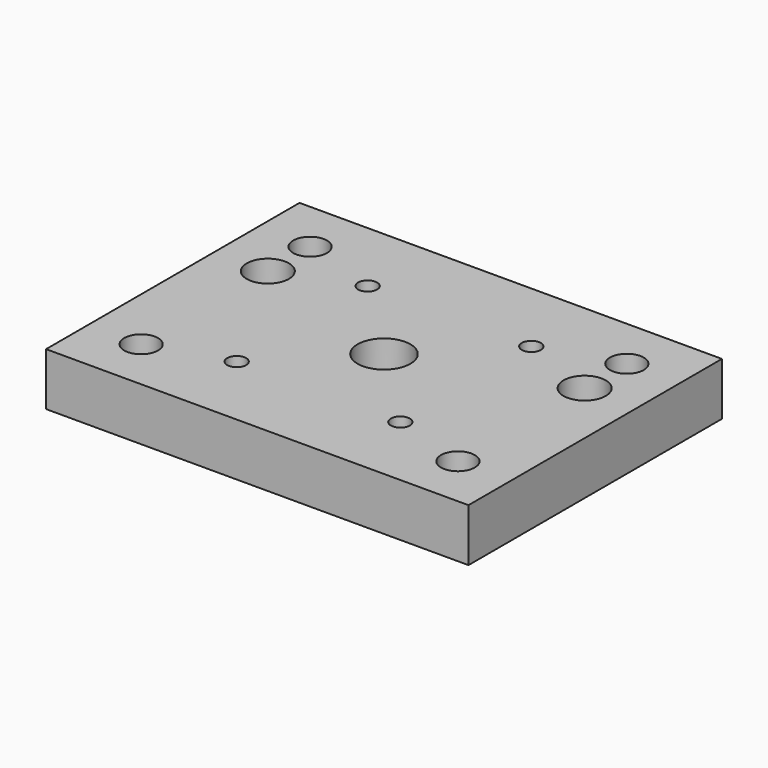
from build123d import *

# Parameters (mm, degrees)
SKETCH_W   = 80
SKETCH_H   = 60
SKETCH_R   = 5
SKETCH_R_2 = 1.8
SKETCH_R_3 = 3.2
SKETCH_R_4 = 4
PAD_DEPTH  = 10


with BuildPart() as part:
    # Sketch → Pad (new body)
    with BuildSketch(Plane.XY):
        with Locations((40, 30)):
            Rectangle(SKETCH_W, SKETCH_H)
        with Locations((40, 30)):
            Circle(SKETCH_R, mode=Mode.SUBTRACT)
        with Locations((55.5, 45.5)):
            Circle(SKETCH_R_2, mode=Mode.SUBTRACT)
        with Locations((55.5, 14.5)):
            Circle(SKETCH_R_2, mode=Mode.SUBTRACT)
        with Locations((24.5, 14.5)):
            Circle(SKETCH_R_2, mode=Mode.SUBTRACT)
        with Locations((24.5, 45.5)):
            Circle(SKETCH_R_2, mode=Mode.SUBTRACT)
        with Locations((10, 10)):
            Circle(SKETCH_R_3, mode=Mode.SUBTRACT)
        with Locations((70, 10)):
            Circle(SKETCH_R_3, mode=Mode.SUBTRACT)
        with Locations((70, 40)):
            Circle(SKETCH_R_4, mode=Mode.SUBTRACT)
        with Locations((10, 40)):
            Circle(SKETCH_R_4, mode=Mode.SUBTRACT)
        with Locations((10, 50)):
            Circle(SKETCH_R_3, mode=Mode.SUBTRACT)
        with Locations((70, 50)):
            Circle(SKETCH_R_3, mode=Mode.SUBTRACT)
    extrude(amount=PAD_DEPTH)


solid = part.part
